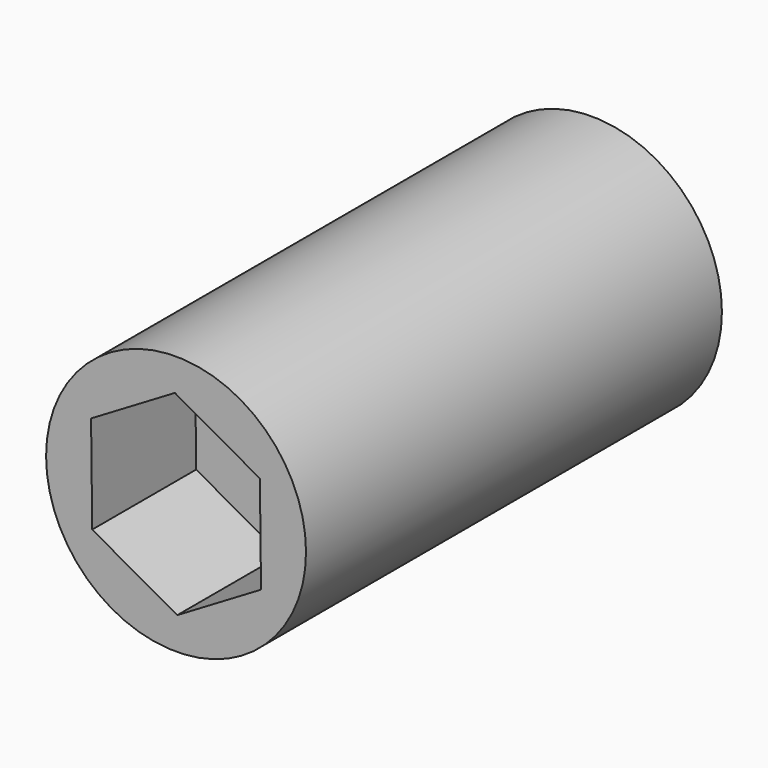
from build123d import *

# Parameters (mm, degrees)
F0_R     = 3.175
F1_DEPTH = 12.7
F3_DEPTH = 3.175
F4_DEPTH = 2.38125


with BuildPart() as f1:
    # F0 (on Front) → F1 (new body)
    with BuildSketch(Plane.XZ):
        Circle(F0_R)
    extrude(amount=F1_DEPTH)

    # F2 (on face) → F3 (cut)
    with BuildSketch(Plane.XZ.offset(12.7)):
        Polygon((-0.028336, 2.381081), (-2.076245, 1.166001), (-2.047909, -1.215081), (0.028336, -2.381081), (2.076245, -1.166001), (2.047909, 1.215081), align=None)
    extrude(amount=-F3_DEPTH, mode=Mode.SUBTRACT)

    # F2 (on face) → F4 (cut)
    with BuildSketch(Plane.XZ.offset(12.7)):
        Polygon((-0.028336, 2.381081), (-2.076245, 1.166001), (-2.047909, -1.215081), (0.028336, -2.381081), (2.076245, -1.166001), (2.047909, 1.215081), align=None)
    extrude(amount=-F4_DEPTH, mode=Mode.SUBTRACT)


solid = f1.part
